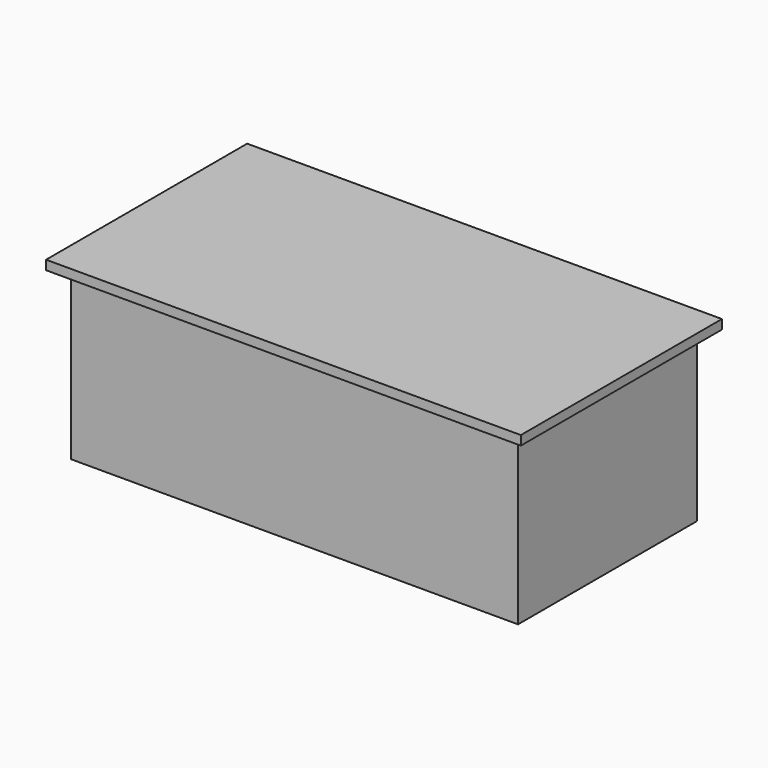
from build123d import *

# Parameters (mm, degrees)
F0_W     = 2438.4
F0_H     = 1219.2
F1_DEPTH = 914.4
F2_W     = 2590.8
F2_H     = 1371.6
F3_DEPTH = 50.8
F4_W     = 609.6
F4_H     = 304.8
F5_DEPTH = 609.6
F6_W     = 609.6
F6_H     = 457.2
F6_W_2   = 812.8
F6_H_2   = 355.6
F6_H_3   = 406.4
F6_W_3   = 355.6
F6_H_4   = 812.8
F6_W_4   = 406.4
F7_DEPTH = 25.4


with BuildPart() as f1:
    # F0 (on Top) → F1 (new body)
    with BuildSketch(Plane.XY):
        with Locations((-285.494889, 12.059888)):
            Rectangle(F0_W, F0_H)
    extrude(amount=F1_DEPTH)

    # F2 (on face) → F3 (join)
    with BuildSketch(Plane.XY.offset(914.4)):
        with Locations((-285.494889, 12.059888)):
            Rectangle(F2_W, F2_H)
    extrude(amount=F3_DEPTH)

    # F4 (on face) → F5 (cut)
    with BuildSketch(Plane(origin=(0, 621.659888, 0), x_dir=(-1, 0, 0), z_dir=(0, 1, 0))):
        with Locations((-578.105111, 711.2)):
            Rectangle(F4_W, F4_H)
    extrude(amount=-F5_DEPTH, mode=Mode.SUBTRACT)

    # F6 (on face) → F7 (join)
    with BuildSketch(Plane(origin=(0, 621.659888, 0), x_dir=(-1, 0, 0), z_dir=(0, 1, 0))):
        with Locations((-578.105111, 279.4)):
            Rectangle(F6_W, F6_H)
        with Locations((183.894889, 685.8)):
            Rectangle(F6_W_2, F6_H_2)
        with Locations((183.894889, 254)):
            Rectangle(F6_W_2, F6_H_3)
        with Locations((818.894889, 457.2)):
            Rectangle(F6_W_3, F6_H_4)
        with Locations((1250.694889, 457.2)):
            Rectangle(F6_W_4, F6_H_4)
    extrude(amount=F7_DEPTH)


solid = f1.part
